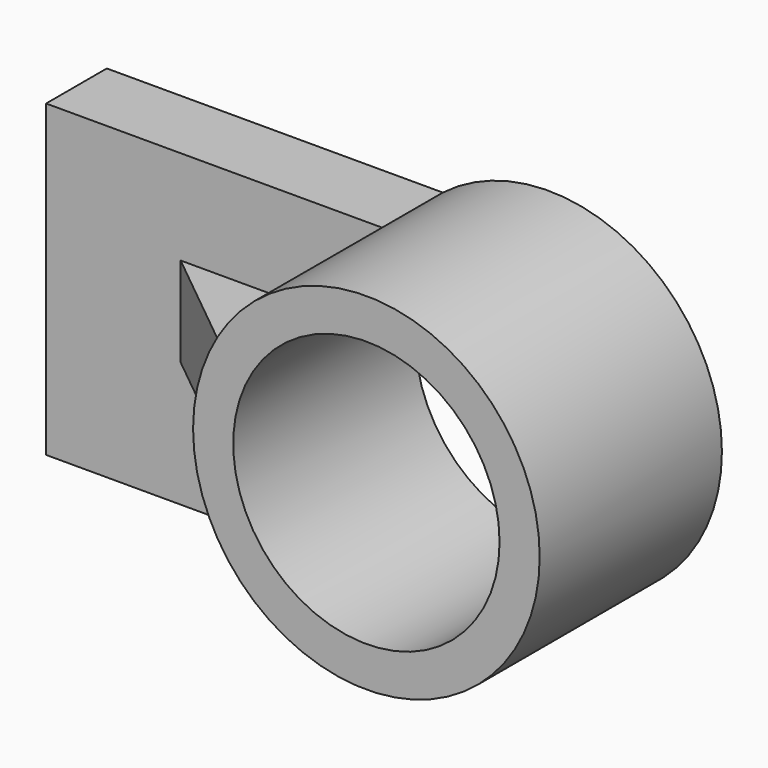
from build123d import *

# Parameters (mm, degrees)
F0_R     = 22.27847408
F1_DEPTH = 38.1
F2_DEPTH = 12.7
F4_DEPTH = 19.05
F6_DEPTH = 25.4


with BuildPart() as f1:
    # F0 (on Front) → F1 (new body)
    with BuildSketch(Plane.XZ):
        with BuildLine():
            ThreePointArc((-3.4225089728, -28.7867356092), (19.2506230187, -21.674944708), (28.9894759301, 0))
            ThreePointArc((28.9894759301, 0), (12.795496455, 26.012785033), (-17.6940161623, 22.9632642878))
            ThreePointArc((-17.6940161623, 22.9632642878), (-27.9462435898, -7.7069568522), (-3.4225089728, -28.7867356092))
        make_face()
        Circle(F0_R, mode=Mode.SUBTRACT)
    extrude(amount=F1_DEPTH)

    # F0 (on Front) → F2 (join)
    with BuildSketch(Plane.XZ):
        with BuildLine():
            ThreePointArc((-3.4225089728, -28.7867356092), (-27.9462435898, -7.7069568522), (-17.6940161623, 22.9632642878))
            Line((-17.6940161623, 22.9632642878), (-73.8979172606, 22.9632642878))
            Line((-73.8979172606, 22.9632642878), (-73.8979172606, -28.7867356092))
            Line((-73.8979172606, -28.7867356092), (-3.4225089728, -28.7867356092))
        make_face()
    extrude(amount=F2_DEPTH)

    # F3 (on face) → F4 (join)
    with BuildSketch(Plane.XZ.offset(12.7)):
        with BuildLine():
            ThreePointArc((-27.9098332278, -7.8377882019), (-28.9873761892, -0.3489073921), (-28.0903995533, 7.1637397799))
            Line((-28.0903995533, 7.1637397799), (-51.3939457674, 7.1637397799))
            Line((-51.3939457674, 7.1637397799), (-51.3939457674, -7.8377882019))
            Line((-51.3939457674, -7.8377882019), (-27.9098332278, -7.8377882019))
        make_face()
    extrude(amount=F4_DEPTH)

    # F5 (on face) → F6 (cut)
    with BuildSketch(Plane(origin=(0, 0, -7.8377882019), x_dir=(1, 0, 0), z_dir=(0, 0, -1))):
        Polygon((-51.3939457674, 31.75), (-51.3939457674, 12.7), (-27.9098332278, 31.75), align=None)
    extrude(amount=-F6_DEPTH, mode=Mode.SUBTRACT)


solid = f1.part
